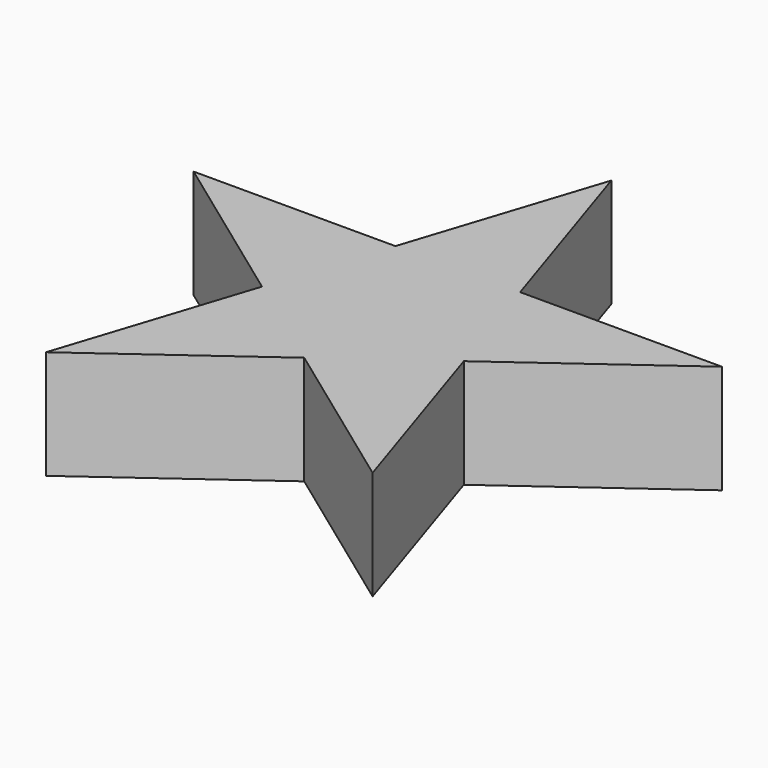
from build123d import *

# Parameters (mm, degrees)
F1_DEPTH = 25.4


with BuildPart() as f1:
    # F0 (on Top) → F1 (new body)
    with BuildSketch(Plane.XY):
        Polygon((14.5529050286, 20.0303553717), (0, 64.8195915964), (-14.5529050286, 20.0303553717), align=None)
        Polygon((-14.5529050286, 20.0303553717), (-61.6470949714, 20.0303553717), (-23.5470949714, -7.6509149453), align=None)
        Polygon((-23.5470949714, -7.6509149453), (-38.1, -52.44015117), (0, -24.7588808529), align=None)
        Polygon((23.5470949714, -7.6509149453), (61.6470949714, 20.0303553717), (14.5529050286, 20.0303553717), align=None)
        Polygon((0, -24.7588808529), (38.1, -52.44015117), (23.5470949714, -7.6509149453), align=None)
        Polygon((14.5529050286, 20.0303553717), (-14.5529050286, 20.0303553717), (-23.5470949714, -7.6509149453), (0, -24.7588808529), (23.5470949714, -7.6509149453), align=None)
    extrude(amount=F1_DEPTH)


solid = f1.part
